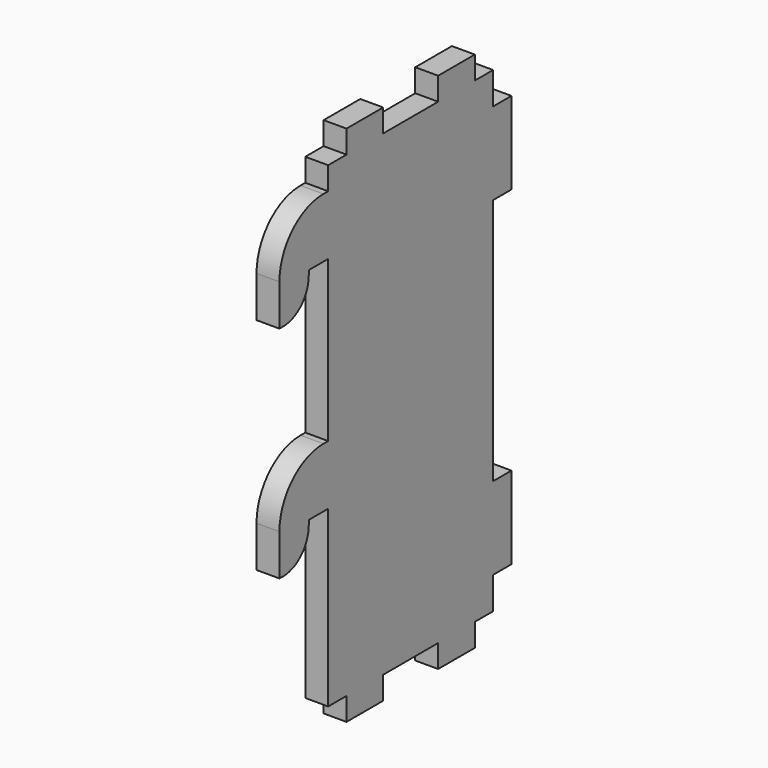
from build123d import *

# Parameters (mm, degrees)
F1_DEPTH = 5


with BuildPart() as f1:
    # F0 (on Right) → F1 (new body)
    with BuildSketch(Plane.YZ):
        with BuildLine():
            Line((-17.5, 52), (-22.5, 52))
            Line((-22.5, 52), (-22.5, 47))
            Line((-22.5, 47), (-23.8, 47))
            ThreePointArc((-23.8, 47), (-32.285281, 43.485281), (-35.8, 35))
            Line((-35.8, 35), (-35.8, 26))
            Line((-35.8, 26), (-34.8, 26))
            ThreePointArc((-34.8, 26), (-29.850253, 28.050253), (-27.8, 33))
            Line((-27.8, 33), (-27.8, 33.8))
            ThreePointArc((-27.8, 33.8), (-27.741421, 33.941421), (-27.6, 34))
            Line((-27.6, 34), (-22.7, 34))
            ThreePointArc((-22.7, 34), (-22.558579, 33.941421), (-22.5, 33.8))
            Line((-22.5, 33.8), (-22.5, -1))
            Line((-22.5, -1), (-23.8, -1))
            ThreePointArc((-23.8, -1), (-32.285281, -4.514719), (-35.8, -13))
            Line((-35.8, -13), (-35.8, -22))
            Line((-35.8, -22), (-34.8, -22))
            ThreePointArc((-34.8, -22), (-29.850253, -19.949747), (-27.8, -15))
            Line((-27.8, -15), (-27.8, -14.2))
            ThreePointArc((-27.8, -14.2), (-27.741421, -14.058579), (-27.6, -14))
            Line((-27.6, -14), (-22.7, -14))
            ThreePointArc((-22.7, -14), (-22.558579, -14.058579), (-22.5, -14.2))
            Line((-22.5, -14.2), (-22.5, -52))
            Line((-22.5, -52), (-17.5, -52))
            Line((-17.5, -52), (-17.5, -57))
            Line((-17.5, -57), (-7.5, -57))
            Line((-7.5, -57), (-7.5, -52))
            Line((-7.5, -52), (7.5, -52))
            Line((7.5, -52), (7.5, -57))
            Line((7.5, -57), (17.5, -57))
            Line((17.5, -57), (17.5, -52))
            Line((17.5, -52), (22.5, -52))
            Line((22.5, -52), (22.5, -45))
            Line((22.5, -45), (27.5, -45))
            Line((27.5, -45), (27.5, -27))
            Line((27.5, -27), (22.5, -27))
            Line((22.5, -27), (22.5, 27))
            Line((22.5, 27), (27.5, 27))
            Line((27.5, 27), (27.5, 45))
            Line((27.5, 45), (22.5, 45))
            Line((22.5, 45), (22.5, 52))
            Line((22.5, 52), (17.5, 52))
            Line((17.5, 52), (17.5, 57))
            Line((17.5, 57), (7.5, 57))
            Line((7.5, 57), (7.5, 52))
            Line((7.5, 52), (-7.5, 52))
            Line((-7.5, 52), (-7.5, 57))
            Line((-7.5, 57), (-17.5, 57))
            Line((-17.5, 57), (-17.5, 52))
        make_face()
    extrude(amount=F1_DEPTH)


solid = f1.part
